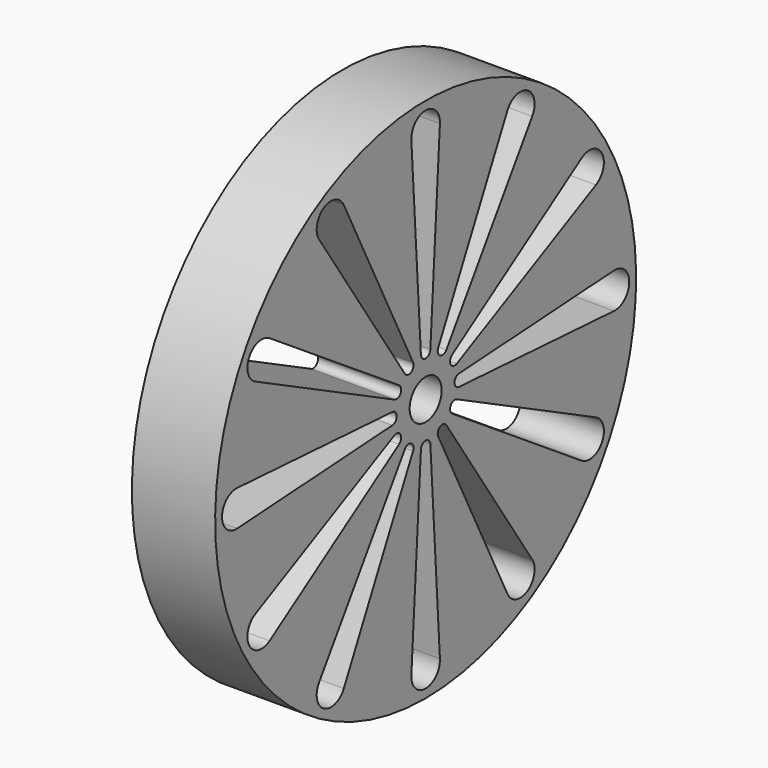
from build123d import *

# Parameters (mm, degrees)
SKETCH004_R             = 15.8
SKETCH004_R_2           = 1.2
PAD003_DEPTH            = 5
POCKET001_DEPTH         = 5
POLARPATTERN001_COUNT   = 12
BODY003_PLACEMENT_ANGLE = 90


with BuildPart() as part:
    # Sketch004 → Pad003 (new body)
    with BuildSketch(Plane.XY):
        Circle(SKETCH004_R)
        Circle(SKETCH004_R_2, mode=Mode.SUBTRACT)
    extrude(amount=PAD003_DEPTH)

    # Sketch005 (on Face4 of Pad003) → Pocket001 (cut)
    with BuildSketch(Plane.XY.offset(5)):
        with BuildLine():
            ThreePointArc((-0.354655, 2.503453), (0, 2.169967), (0.354655, 2.503453))
            Line((0.354655, 2.503453), (1.071428, 14.142374))
            ThreePointArc((1.071428, 14.142374), (0, 15.281815), (-1.071428, 14.142374))
            Line((-0.354655, 2.503453), (-1.071428, 14.142374))
        make_face()
    pocket001 = extrude(amount=-POCKET001_DEPTH, mode=Mode.SUBTRACT)

    # PolarPattern001: Pocket001 ×12 about axis
    polarpattern001_axis = Axis((0, 0, 0), (0, 0, 1))
    for i in range(1, POLARPATTERN001_COUNT):
        add(pocket001.rotate(polarpattern001_axis, i * 360 / POLARPATTERN001_COUNT), mode=Mode.SUBTRACT)


with BuildPart() as part_1:
    # Body003 placement: moved
    add(part.part.moved(Location((-35, -67, 14))).rotate(Axis((-35, -67, 14), (0, 1, 0)), BODY003_PLACEMENT_ANGLE))


solid = part_1.part
